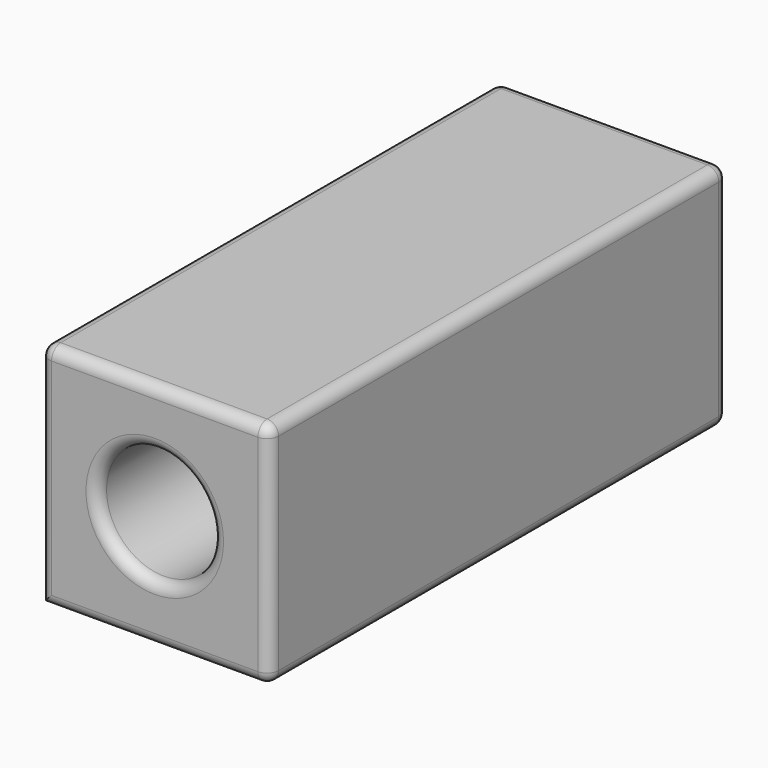
from build123d import *

# Parameters (mm, degrees)
F0_W     = 101.6
F0_H     = 101.6
F0_R     = 25.4
F1_DEPTH = 254
F2_R     = 5.08


with BuildPart() as f1:
    # F0 (on Front) → F1 (new body)
    with BuildSketch(Plane.XZ):
        Rectangle(F0_W, F0_H)
        Circle(F0_R, mode=Mode.SUBTRACT)
    extrude(amount=F1_DEPTH)

    # F2
    f2_edges = [f1.edges().sort_by_distance(p)[0] for p in [
        (0, -254, 50.8),
        (50.8, -127, 50.8),
        (-50.8, -127, 50.8),
        (0, 0, 50.8),
        (50.8, -254, 0),
        (-50.8, -254, 0),
        (0, -254, -50.8),
        (-25.4, -254, 0),
        (50.8, -127, -50.8),
        (50.8, 0, 0),
        (-50.8, 0, 0),
        (0, 0, -50.8),
        (-25.4, 0, 0),
    ]]
    fillet(f2_edges, radius=F2_R)


solid = f1.part
